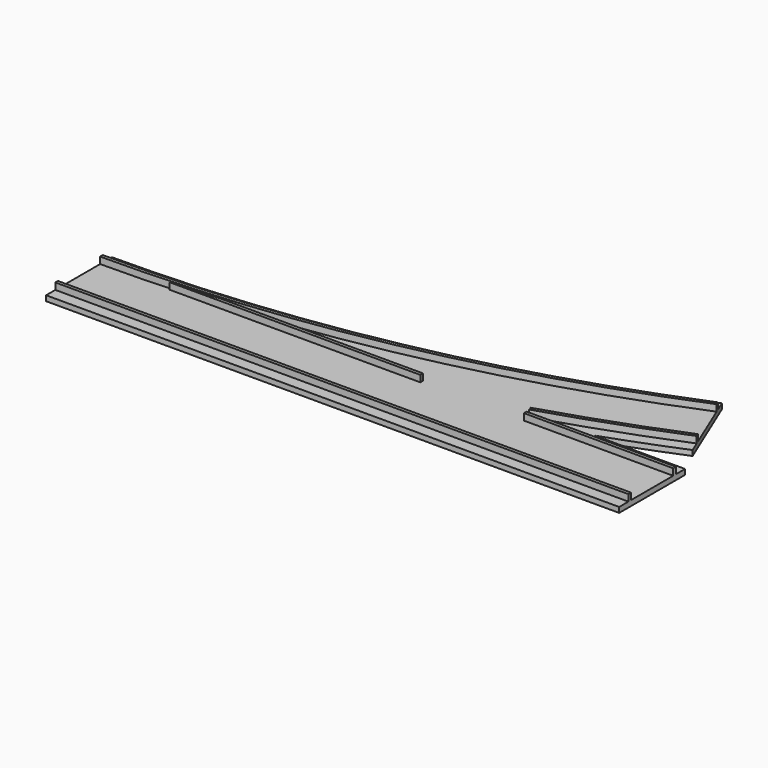
from build123d import *

# Parameters (mm, degrees)
PAD_DEPTH     = 1.6
SKETCH001_W   = 174
SKETCH001_H   = 1
SKETCH001_W_2 = 45.298462
PAD001_DEPTH  = 2


with BuildPart() as part:
    # Sketch → Pad (new body)
    with BuildSketch(Plane.XY):
        with BuildLine():
            Line((0, -12.5), (174, -12.5))
            Line((174, -12.5), (174, 12.5))
            Line((174, 12.5), (146.628783, 12.5))
            ThreePointArc((146.628783, 12.5), (158.042748, 16.685665), (169.337419, 21.183307))
            Line((159.770333, 44.280295), (169.337419, 21.183307))
            ThreePointArc((0, 12.5), (81.450209, 20.522145), (159.770333, 44.280295))
            Line((0, -12.5), (0, 12.5))
        make_face()
    extrude(amount=PAD_DEPTH)

    # Sketch001 (on Face9 of Pad) → Pad001 (join)
    with BuildSketch(Plane.XY.offset(1.6)):
        with Locations((87, -8.5)):
            Rectangle(SKETCH001_W, SKETCH001_H)
        with BuildLine():
            ThreePointArc((0, 8), (82.328116, 16.108612), (161.492408, 40.122837))
            Line((161.109725, 41.046717), (161.492408, 40.122837))
            ThreePointArc((0, 9), (82.133026, 17.089397), (161.109725, 41.046717))
            Line((0, 9), (0, 8))
        make_face()
        with BuildLine():
            ThreePointArc((128.49115, 10.225031), (148.414319, 16.848466), (167.998027, 24.416885))
            Line((167.615343, 25.340765), (167.998027, 24.416885))
            ThreePointArc((128.198459, 11.181238), (148.076245, 17.789586), (167.615343, 25.340765))
            Line((128.198459, 11.181238), (128.49115, 10.225031))
        make_face()
        with Locations((151.350769, 8.5)):
            Rectangle(SKETCH001_W_2, SKETCH001_H)
        with BuildLine():
            Line((97.217995, 8), (97.217995, 9))
            Line((97.217995, 9), (35.878481, 9))
            ThreePointArc((21.077604, 8), (28.482431, 8.435039), (35.878481, 9))
            Line((97.217995, 8), (21.077604, 8))
        make_face()
    extrude(amount=PAD001_DEPTH)


solid = part.part
